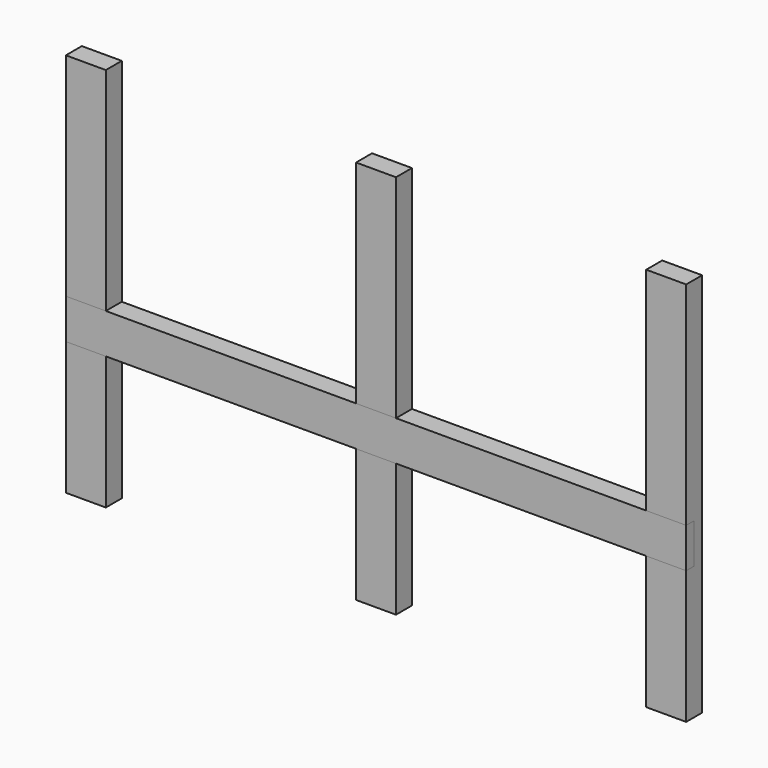
from build123d import *

# Parameters (mm, degrees)
F0_W       = 90
F0_H       = 868
F1_DEPTH   = 45
F2_W       = 1398
F2_H       = 90
F3_DEPTH   = 22.5
F4_W       = 1398
F4_H       = 90
F5_DEPTH   = 45
F8_D       = 6
F8_DEPTH   = 35
F8_TIP     = 1.8025818571
F8_2_D     = 6
F8_2_DEPTH = 35
F8_2_TIP   = 1.8025818571
F8_3_D     = 6
F8_3_DEPTH = 35
F8_3_TIP   = 1.8025818571


with BuildPart() as f1:
    # F0 (on Front) → F1 (new body)
    with BuildSketch(Plane.XZ):
        with Locations((-654, 434)):
            Rectangle(F0_W, F0_H)
    extrude(amount=F1_DEPTH)


with BuildPart() as f1b:
    # F0 (on Front) → F1, piece 2 (new body)
    with BuildSketch(Plane.XZ):
        with Locations((0, 434)):
            Rectangle(F0_W, F0_H)
    extrude(amount=F1_DEPTH)


with BuildPart() as f1c:
    # F0 (on Front) → F1, piece 3 (new body)
    with BuildSketch(Plane.XZ):
        with Locations((654, 434)):
            Rectangle(F0_W, F0_H)
    extrude(amount=F1_DEPTH)


with BuildPart() as f3_tool:
    # F2 (on face) → F3 (new body)
    with BuildSketch(Plane.XZ.offset(45)):
        with Locations((0, 345)):
            Rectangle(F2_W, F2_H)
    extrude(amount=-F3_DEPTH)


with BuildPart() as f1_1:
    add(f1.part)

    # F3: cut by f3_tool
    add(f3_tool.part, mode=Mode.SUBTRACT)


with BuildPart() as f1b_1:
    add(f1b.part)

    # F3: cut by f3_tool
    add(f3_tool.part, mode=Mode.SUBTRACT)


with BuildPart() as f1c_1:
    add(f1c.part)

    # F3: cut by f3_tool
    add(f3_tool.part, mode=Mode.SUBTRACT)


with BuildPart() as f5:
    # F4 (on face) → F5 (new body)
    with BuildSketch(Plane.XZ.offset(45)):
        with Locations((0, 345)):
            Rectangle(F4_W, F4_H)
    extrude(amount=-F5_DEPTH)

    # F6: cut F1, F1b, F1c
    add(f1_1.part, mode=Mode.SUBTRACT)
    add(f1b_1.part, mode=Mode.SUBTRACT)
    add(f1c_1.part, mode=Mode.SUBTRACT)


with BuildPart() as f1_2:
    add(f1_1.part)

    # F8
    with Locations(Plane(origin=(0, 0, 0), x_dir=(-1, 0, 0), z_dir=(0, 1, 0))):
        with Locations((-688.5, 845), (-654, 845), (-619.5, 845), (-34.5, 845), (0, 845), (34.5, 845), (619.5, 845), (654, 845), (688.5, 845)):
            Hole(F8_D / 2, depth=F8_DEPTH)
            with Locations((0, 0, -(F8_DEPTH + F8_TIP / 2))):  # 118° drill point
                Cone(0, F8_D / 2, F8_TIP, mode=Mode.SUBTRACT)


with BuildPart() as f1b_2:
    add(f1b_1.part)

    # F8#2
    with Locations(Plane(origin=(0, 0, 0), x_dir=(-1, 0, 0), z_dir=(0, 1, 0))):
        with Locations((-688.5, 845), (-654, 845), (-619.5, 845), (-34.5, 845), (0, 845), (34.5, 845), (619.5, 845), (654, 845), (688.5, 845)):
            Hole(F8_2_D / 2, depth=F8_2_DEPTH)
            with Locations((0, 0, -(F8_2_DEPTH + F8_2_TIP / 2))):  # 118° drill point
                Cone(0, F8_2_D / 2, F8_2_TIP, mode=Mode.SUBTRACT)


with BuildPart() as f1c_2:
    add(f1c_1.part)

    # F8#3
    with Locations(Plane(origin=(0, 0, 0), x_dir=(-1, 0, 0), z_dir=(0, 1, 0))):
        with Locations((-688.5, 845), (-654, 845), (-619.5, 845), (-34.5, 845), (0, 845), (34.5, 845), (619.5, 845), (654, 845), (688.5, 845)):
            Hole(F8_3_D / 2, depth=F8_3_DEPTH)
            with Locations((0, 0, -(F8_3_DEPTH + F8_3_TIP / 2))):  # 118° drill point
                Cone(0, F8_3_D / 2, F8_3_TIP, mode=Mode.SUBTRACT)


solid = Compound([f5.part, f1_2.part, f1b_2.part, f1c_2.part])
